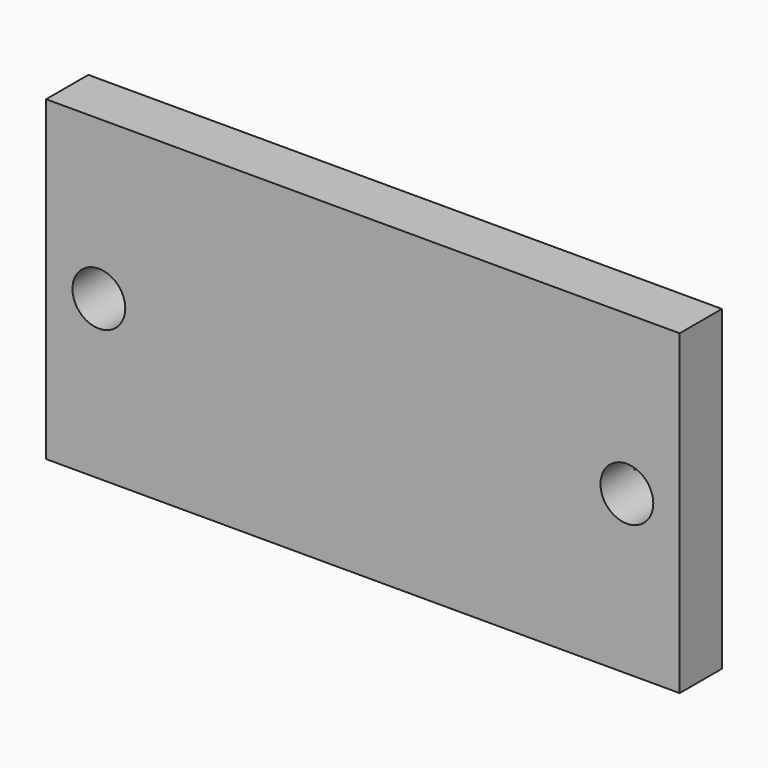
from build123d import *

# Parameters (mm, degrees)
F0_W     = 60
F0_H     = 30
F0_R     = 2.5
F1_DEPTH = 5
F2_W     = 45.10102
F2_H     = 1
F3_DEPTH = 1


with BuildPart() as f1:
    # F0 (on Front) → F1 (new body)
    with BuildSketch(Plane.XZ):
        Rectangle(F0_W, F0_H)
        with Locations((-25, 0)):
            Circle(F0_R, mode=Mode.SUBTRACT)
        with Locations((25, 0)):
            Circle(F0_R, mode=Mode.SUBTRACT)
    extrude(amount=F1_DEPTH)

    # F2 (on Front) → F3 (join)
    with BuildSketch(Plane.XZ):
        Rectangle(F2_W, F2_H)
    extrude(amount=F3_DEPTH)


solid = f1.part
